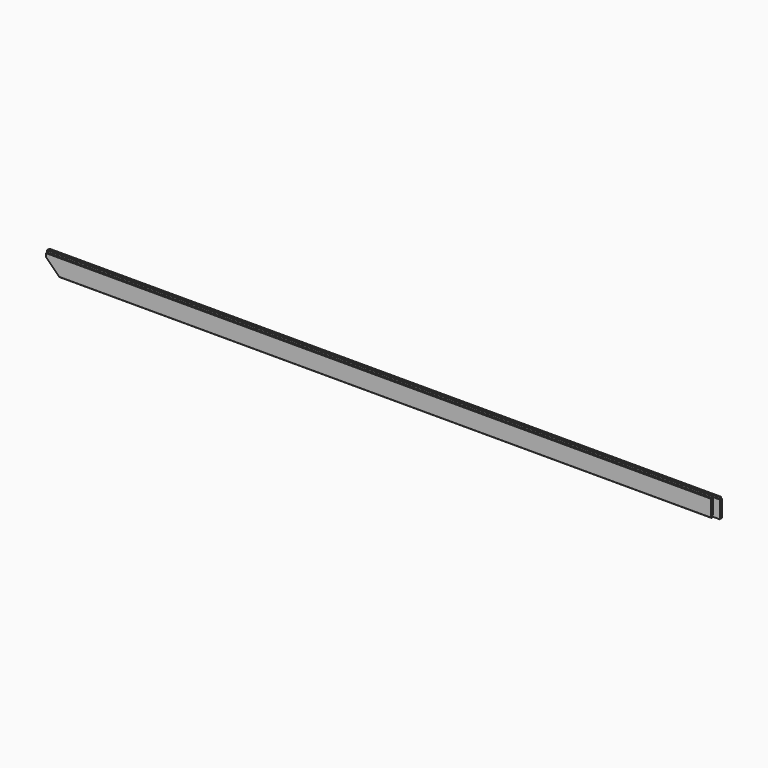
from build123d import *

# Parameters (mm, degrees)
F1_DEPTH = 2550
F3_DEPTH = 25
F5_DEPTH = 50


with BuildPart() as f1:
    # F0 (on Right) → F1 (new body, symmetric)
    with BuildSketch(Plane.YZ):
        Polygon((20, -70), (20, 56), (17, 59), (12, 59), (12, 73), (4, 73), (4, 59), (-4, 59), (-4, 73), (-12, 73), (-12, 59), (-17, 59), (-20, 56), (-20, -70), (-17, -73), (-12, -73), (-12, -59), (-4, -59), (-4, -73), (4, -73), (4, -59), (12, -59), (12, -73), (17, -73), align=None)
    extrude(amount=F1_DEPTH, both=True)

    # F2 (on Front) → F3 (cut, symmetric)
    with BuildSketch(Plane.XZ):
        Polygon((-2390, -129.776695), (-2566.776695, 47), (-2566.776695, -129.776695), align=None)
    extrude(amount=F3_DEPTH, both=True, mode=Mode.SUBTRACT)

    # F4 (on face) → F5 (cut)
    with BuildSketch(Plane.YZ.offset(2550)):
        Polygon((-4, -73), (0, -73), (0, 59), (-4, 59), (-4, 73), (-12, 73), (-12, 59), (-17, 59), (-20, 56), (-20, -70), (-17, -73), (-12, -73), (-12, -59), (-4, -59), align=None)
    extrude(amount=-F5_DEPTH, mode=Mode.SUBTRACT)


solid = f1.part
